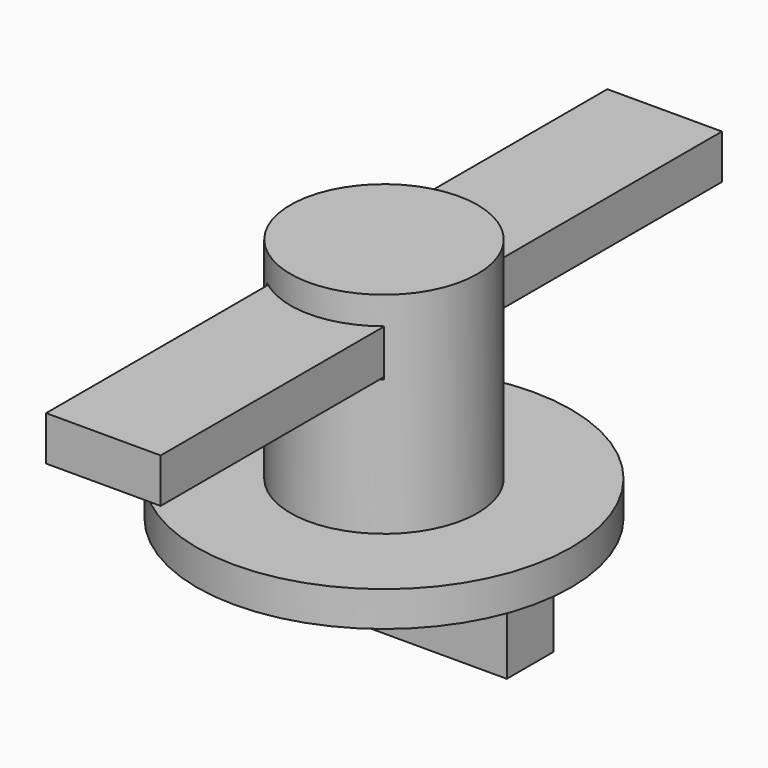
from build123d import *

# Parameters (mm, degrees)
SKETCH003_W  = 10
SKETCH003_H  = 4
PAD003_DEPTH = 60
SKETCH_R     = 16
PAD_DEPTH    = 3
SKETCH001_R  = 8
PAD001_DEPTH = 18
SKETCH002_W  = 25
SKETCH002_H  = 5
PAD002_DEPTH = 7
SKETCH004_W  = 9.8
SKETCH004_H  = 3.8
PAD004_DEPTH = 60


with BuildPart() as body001:
    # Sketch003 → Pad003 (new body)
    with BuildSketch(Plane.XZ):
        with Locations((0, 25.627052)):
            Rectangle(SKETCH003_W, SKETCH003_H)
    extrude(amount=PAD003_DEPTH)


with BuildPart() as body001_1:
    # Body001 placement: moved
    add(body001.part.moved(Location((0, 30, -9))))


with BuildPart() as body:
    # Sketch → Pad (new body)
    with BuildSketch(Plane.XY):
        Circle(SKETCH_R)
    extrude(amount=PAD_DEPTH)

    # Sketch001 (on Face3 of Pad) → Pad001 (join)
    with BuildSketch(Plane.XY.offset(3)):
        Circle(SKETCH001_R)
    extrude(amount=PAD001_DEPTH)

    # Sketch002 (on Face2 of Pad001) → Pad002 (join)
    with BuildSketch(Plane(origin=(0, 0, 0), x_dir=(1, 0, 0), z_dir=(0, 0, -1))):
        Rectangle(SKETCH002_W, SKETCH002_H)
    extrude(amount=PAD002_DEPTH)

    # Boolean: cut Body001
    add(body001_1.part, mode=Mode.SUBTRACT)


with BuildPart() as body002:
    # Sketch004 → Pad004 (new body)
    with BuildSketch(Plane.XZ):
        with Locations((0, 25.727052)):
            Rectangle(SKETCH004_W, SKETCH004_H)
    extrude(amount=PAD004_DEPTH)


with BuildPart() as body002_1:
    # Body002 placement: moved
    add(body002.part.moved(Location((0, 30, -9.1))))


solid = Compound([body.part, body002_1.part])
